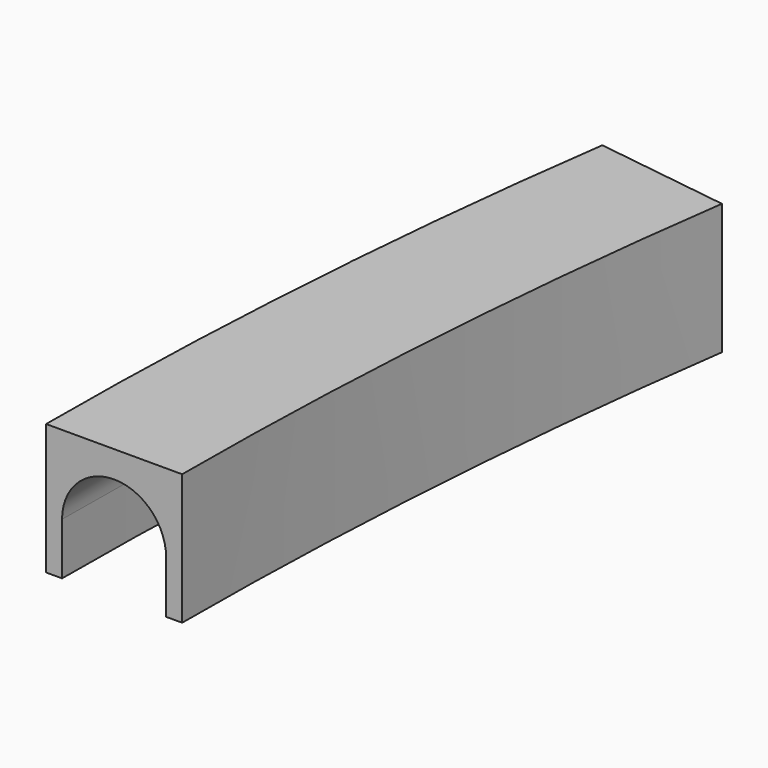
from build123d import *


with BuildPart() as f2:
    # F2: sweep along a path in F1
    with BuildLine(Plane.XY) as f2_path:
        ThreePointArc((8.272142, 118.297136), (2.070557, 59.293003), (0, 0))
    # F0 (on Front) → F2 (sweep)
    with BuildSketch(Plane.XZ):
        with BuildLine():
            ThreePointArc((-9.775, 9.775), (0, 19.55), (9.775, 9.775))
            Line((9.775, 9.775), (9.775, 0))
            Line((9.775, 0), (12.775, 0))
            Line((12.775, 0), (12.775, 24.55))
            Line((12.775, 24.55), (-12.775, 24.55))
            Line((-12.775, 24.55), (-12.775, 0))
            Line((-12.775, 0), (-9.775, 0))
            Line((-9.775, 0), (-9.775, 9.775))
        make_face()
    sweep(path=f2_path.line)


solid = f2.part
